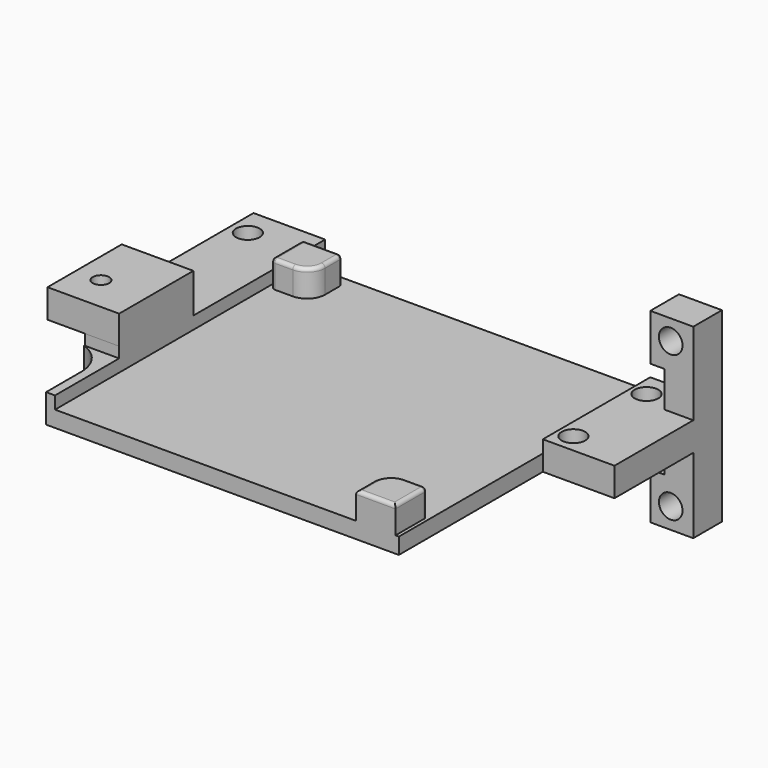
from build123d import *

# Parameters (mm, degrees)
CYLINDER022_R     = 1.15
CYLINDER022_DEPTH = 10
EXTRUDE025_DEPTH  = 1.5
SKETCH022_R       = 0.75
SKETCH022_R_2     = 1
EXTRUDE022_DEPTH  = 8
BOX005_W          = 48
BOX005_H          = 45
BOX005_DEPTH      = 10
SKETCH020_R       = 1.65
EXTRUDE020_DEPTH  = 4
EXTRUDE001_DEPTH  = 4
FILLET003_R       = 0.5
SKETCH021_R       = 1.65
EXTRUDE021_DEPTH  = 5
BOX006_W          = 10
BOX006_H          = 12.95
BOX006_DEPTH      = 4


with BuildPart() as cylinder022:
    # Cylinder022 → Cylinder022 (new body)
    with BuildSketch(Plane(origin=(6.5, 51, 13.03), x_dir=(1, 0, 0), z_dir=(0, 0, 1))):
        Circle(CYLINDER022_R)
    extrude(amount=CYLINDER022_DEPTH)


with BuildPart() as extrude025:
    # Sketch028 → Extrude025 (new body)
    with BuildSketch(Plane.XY):
        with BuildLine():
            Line((8.25, 46.050253), (13, 46.050253))
            Line((13, 46.050253), (13, 59))
            Line((13, 59), (3, 59))
            Line((3, 59), (3, 56.25))
            Line((3, 56.25), (6.5, 56.25))
            ThreePointArc((8.25, 46.050253), (11.674392, 51.887785), (6.5, 56.25))
        make_face()
    extrude(amount=EXTRUDE025_DEPTH)


with BuildPart() as extrude025_1:
    # Extrude025 placement: moved
    add(extrude025.part.moved(Location((0, 0, 17))))


with BuildPart() as extrude022:
    # Sketch022 → Extrude022 (new body)
    with BuildSketch(Plane.XY):
        with Locations((37.45, 61.7)):
            Circle(SKETCH022_R)
        with Locations((42.85, 62.65)):
            Circle(SKETCH022_R_2)
        with Locations((42.85, 75.35)):
            Circle(SKETCH022_R_2)
    extrude(amount=EXTRUDE022_DEPTH)


with BuildPart() as extrude022_1:
    # Extrude022 placement: moved
    add(extrude022.part.moved(Location((0, 0, 6))))


with BuildPart() as obj1:
    # Box005 → Box005 (new body)
    with BuildSketch(Plane(origin=(13, 34, 15.25), x_dir=(1, 0, 0), z_dir=(0, 0, 1))):
        with Locations((24, 22.5)):
            Rectangle(BOX005_W, BOX005_H)
    extrude(amount=BOX005_DEPTH)


with BuildPart() as sensorhold:
    # Sketch020 → Extrude020 (new body)
    with BuildSketch(Plane.XY):
        with BuildLine():
            Line((3, 56.25), (3, 82))
            Line((3, 82), (13, 82))
            Line((13, 82), (13, 78.75))
            Line((13, 78.75), (71, 78.75))
            Line((71, 78.75), (71, 60))
            Line((61, 60), (71, 60))
            Line((61, 34.86), (61, 60))
            Line((11.75, 34.86), (61, 34.86))
            Line((11.75, 34.86), (11.75, 41))
            ThreePointArc((11.75, 41), (10.740672, 44.095028), (8.100781, 46))
            ThreePointArc((8.100781, 46), (11.687123, 51.810093), (6.5, 56.25))
            Line((3, 56.25), (6.5, 56.25))
        make_face()
        with Locations((5.45, 77.95)):
            Circle(SKETCH020_R, mode=Mode.SUBTRACT)
        with Locations((63.15, 62.65)):
            Circle(SKETCH020_R, mode=Mode.SUBTRACT)
        with Locations((63.15, 75.4)):
            Circle(SKETCH020_R, mode=Mode.SUBTRACT)
    extrude(amount=EXTRUDE020_DEPTH)


with BuildPart() as sensorhold_1:
    # Extrude020 placement: moved
    add(sensorhold.part.moved(Location((0, 0, 13))))

    # Cut007: cut obj1
    add(obj1.part, mode=Mode.SUBTRACT)


with BuildPart() as obj2:
    # Sketch001 → Extrude001 (new body)
    with BuildSketch(Plane.XY):
        with BuildLine():
            Line((19.03, 74.44), (19.03, 77.44))
            Line((19.03, 77.44), (13.53, 77.44))
            Line((13.53, 71.94), (13.53, 77.44))
            Line((16.53, 71.94), (13.53, 71.94))
            ThreePointArc((16.53, 71.94), (18.297767, 72.672233), (19.03, 74.44))
        make_face()
        with BuildLine():
            Line((60.53, 34.86), (55.03, 34.86))
            Line((55.03, 34.86), (55.03, 37.86))
            ThreePointArc((57.53, 40.36), (55.762233, 39.627767), (55.03, 37.86))
            Line((60.53, 40.36), (57.53, 40.36))
            Line((60.53, 34.86), (60.53, 40.36))
        make_face()
    extrude(amount=EXTRUDE001_DEPTH)


with BuildPart() as obj2_1:
    # Extrude001 placement: moved
    add(obj2.part.moved(Location((0, 0, 2))))

    # Fillet003
    fillet003_edges = [obj2_1.edges().sort_by_distance(p)[0] for p in [
        (57.78, 34.86, 6),
        (55.03, 36.36, 6),
        (55.762233, 39.627767, 6),
        (60.53, 40.36, 4),
        (59.03, 40.36, 6),
        (60.53, 37.61, 6),
        (18.297767, 72.672233, 6),
        (19.03, 77.44, 4),
        (19.03, 75.94, 6),
        (13.53, 77.44, 4),
        (16.28, 77.44, 6),
        (13.53, 71.94, 4),
        (13.53, 74.69, 6),
        (15.03, 71.94, 6),
    ]]
    fillet(fillet003_edges, radius=FILLET003_R)


with BuildPart() as obj2_2:
    # Fillet003 placement: moved
    add(obj2_1.part.moved(Location((0, 0, 13))))


with BuildPart() as gpshold:
    # Sketch021 → Extrude021 (new body)
    with BuildSketch(Plane.XZ):
        Polygon((65, 28.5), (71, 28.5), (71, 2.5), (65, 2.5), (65, 9), (67, 9), (67, 22), (65, 22), align=None)
        with Locations((67.85, 25.7)):
            Circle(SKETCH021_R, mode=Mode.SUBTRACT)
        with Locations((67.85, 5.4)):
            Circle(SKETCH021_R, mode=Mode.SUBTRACT)
    extrude(amount=EXTRUDE021_DEPTH)


with BuildPart() as gpshold_1:
    # Extrude021 placement: moved
    add(gpshold.part.moved(Location((0, 78.75, 0))))


with BuildPart() as sensorhold003:
    # Box006 → Box006 (new body)
    with BuildSketch(Plane(origin=(3, 46.05, 18.5), x_dir=(1, 0, 0), z_dir=(0, 0, 1))):
        with Locations((5, 6.475)):
            Rectangle(BOX006_W, BOX006_H)
    extrude(amount=BOX006_DEPTH)

    # Fusion025: union Extrude025, Extrude022, SensorHold, obj2, gpsHold
    add(extrude025_1.part)
    add(extrude022_1.part)
    add(sensorhold_1.part)
    add(obj2_2.part)
    add(gpshold_1.part)

    # Cut008: cut Cylinder022
    add(cylinder022.part, mode=Mode.SUBTRACT)


solid = sensorhold003.part
